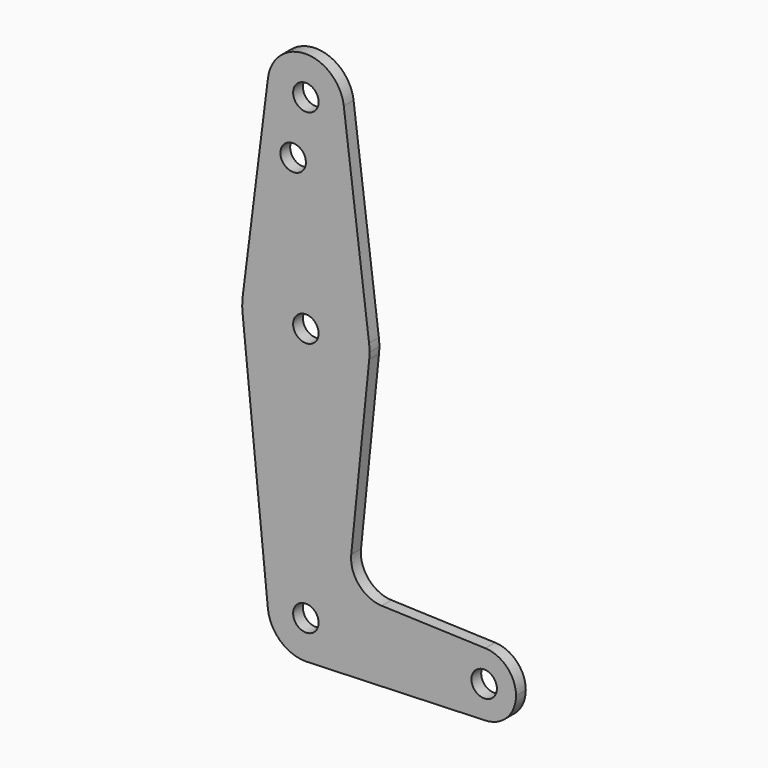
from build123d import *

# Parameters (mm, degrees)
F0_R     = 3.175
F1_DEPTH = 3.048


with BuildPart() as f1:
    # F0 (on Front) → F1 (new body)
    with BuildSketch(Plane.XZ):
        with BuildLine():
            ThreePointArc((-9.450293, 115.490625), (-0.596483, 104.793695), (9.525, 114.3))
            ThreePointArc((9.525, 114.3), (9.506305, 114.896483), (9.450293, 115.490625))
            ThreePointArc((9.450293, 115.490625), (0, 123.825), (-9.450293, 115.490625))
        make_face()
        with Locations((0, 114.3)):
            Circle(F0_R, mode=Mode.SUBTRACT)
        with BuildLine():
            ThreePointArc((9.450293, 115.490625), (9.506305, 114.896483), (9.525, 114.3))
            ThreePointArc((9.525, 114.3), (-0.596483, 104.793695), (-9.450293, 115.490625))
            Line((-9.450293, 115.490625), (-15.750488, 65.484375))
            ThreePointArc((-15.750488, 65.484375), (0, 79.375), (15.750488, 65.484375))
            Line((15.750488, 65.484375), (9.450293, 115.490625))
        make_face()
        with Locations((-3.175, 100.0252)):
            Circle(F0_R, mode=Mode.SUBTRACT)
        with BuildLine():
            ThreePointArc((15.875, 63.5), (15.843841, 64.494139), (15.750488, 65.484375))
            ThreePointArc((15.750488, 65.484375), (0, 79.375), (-15.750488, 65.484375))
            ThreePointArc((-15.750488, 65.484375), (-15.873744, 63.699705), (-15.795426, 61.9125))
            ThreePointArc((-15.795426, 61.9125), (-0.006091, 47.625001), (15.794203, 61.90038))
            ThreePointArc((15.794203, 61.90038), (15.854788, 62.699171), (15.875, 63.5))
        make_face()
        with Locations((0, 63.5)):
            Circle(F0_R, mode=Mode.SUBTRACT)
        with BuildLine():
            ThreePointArc((15.794203, 61.90038), (-0.006091, 47.625001), (-15.795426, 61.9125))
            Line((-15.795426, 61.9125), (-9.477255, -0.9525))
            ThreePointArc((-9.477255, -0.9525), (-0.476848, 9.513056), (9.525, 0))
            ThreePointArc((9.525, 0), (6.970557, -6.491299), (0.677344, -9.500886))
            Line((0.677344, -9.500886), (44.732405, -7.932475))
            ThreePointArc((44.732405, -7.932475), (36.5125, 0), (44.732405, 7.932475))
            Line((44.732405, 7.932475), (18.934103, 8.850924))
            ThreePointArc((18.934103, 8.850924), (13.224974, 11.57098), (11.307223, 17.59718))
            Line((11.307223, 17.59718), (15.794203, 61.90038))
        make_face()
        with BuildLine():
            ThreePointArc((9.525, 0), (-0.476848, 9.513056), (-9.477255, -0.9525))
            ThreePointArc((-9.477255, -0.9525), (-6.389564, -7.063929), (0, -9.525))
            Line((0, -9.525), (0.677344, -9.500886))
            ThreePointArc((0.677344, -9.500886), (6.970557, -6.491299), (9.525, 0))
        make_face()
        Circle(F0_R, mode=Mode.SUBTRACT)
        with BuildLine():
            ThreePointArc((52.3875, 0), (50.161633, 5.51191), (44.732405, 7.932475))
            ThreePointArc((44.732405, 7.932475), (36.5125, 0), (44.732405, -7.932475))
            ThreePointArc((44.732405, -7.932475), (50.161633, -5.51191), (52.3875, 0))
        make_face()
        with Locations((44.45, 0)):
            Circle(F0_R, mode=Mode.SUBTRACT)
    extrude(amount=F1_DEPTH)


solid = f1.part
